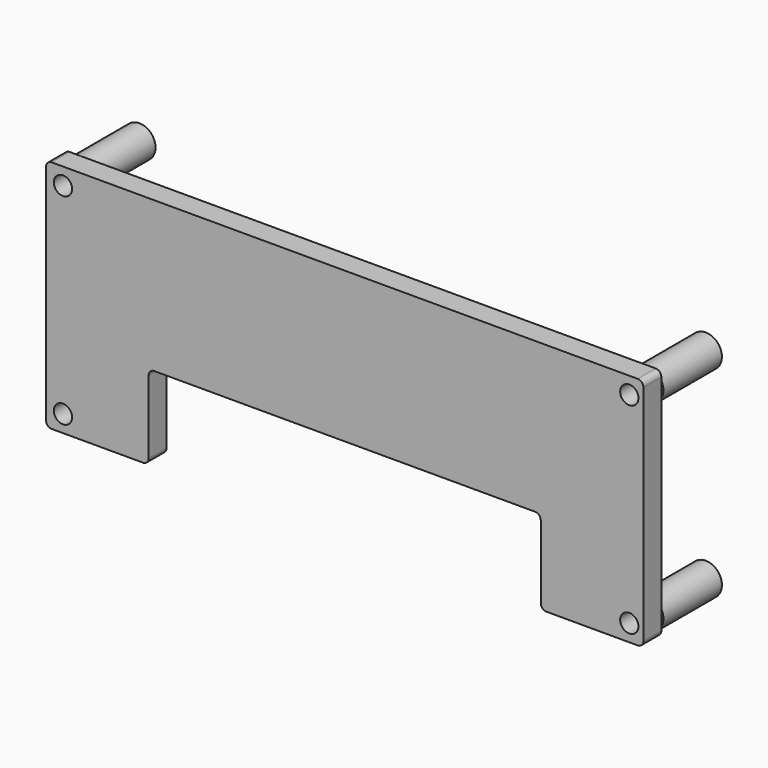
from build123d import *

# Parameters (mm, degrees)
SKETCH051_R                = 2.875
SKETCH051_R_2              = 1.625
EXTRUDE049_DEPTH           = 13
EXTRUDE049_PLACEMENT_ANGLE = 270
SKETCH050_R                = 1.625
EXTRUDE048_DEPTH           = 4
EXTRUDE048_PLACEMENT_ANGLE = 270
FILLET040_R                = 1


with BuildPart() as spacer001:
    # Sketch051 → Extrude049 (new body)
    with BuildSketch(Plane.YZ):
        with Locations((3, 38.75)):
            Circle(SKETCH051_R)
        with Locations((3, 38.75)):
            Circle(SKETCH051_R_2, mode=Mode.SUBTRACT)
        with Locations((3, 3)):
            Circle(SKETCH051_R)
        with Locations((3, 3)):
            Circle(SKETCH051_R_2, mode=Mode.SUBTRACT)
        with Locations((103.75, 3)):
            Circle(SKETCH051_R)
        with Locations((103.75, 3)):
            Circle(SKETCH051_R_2, mode=Mode.SUBTRACT)
        with Locations((103.75, 38.75)):
            Circle(SKETCH051_R)
        with Locations((103.75, 38.75)):
            Circle(SKETCH051_R_2, mode=Mode.SUBTRACT)
    extrude(amount=EXTRUDE049_DEPTH)


with BuildPart() as spacer001_1:
    # Extrude049 placement: moved
    add(spacer001.part.moved(Location((0, -2, 0))).rotate(Axis((0, -2, 0), (0, 0, 1)), EXTRUDE049_PLACEMENT_ANGLE))


with BuildPart() as top_fillet001:
    # Sketch050 → Extrude048 (new body)
    with BuildSketch(Plane.YZ):
        Polygon((106.25, 0), (106.25, 41.75), (0, 41.75), (0, 0), (18.25, 0), (18.25, 15), (88, 15), (88, 0), align=None)
        with Locations((3, 3)):
            Circle(SKETCH050_R, mode=Mode.SUBTRACT)
        with Locations((3, 38.75)):
            Circle(SKETCH050_R, mode=Mode.SUBTRACT)
        with Locations((103.75, 38.75)):
            Circle(SKETCH050_R, mode=Mode.SUBTRACT)
        with Locations((103.75, 3)):
            Circle(SKETCH050_R, mode=Mode.SUBTRACT)
    extrude(amount=EXTRUDE048_DEPTH)


with BuildPart() as top_fillet001_1:
    # Extrude048 placement: moved
    add(top_fillet001.part.moved(Location((0, -15, 0))).rotate(Axis((0, -15, 0), (0, 0, 1)), EXTRUDE048_PLACEMENT_ANGLE))

    # Fusion077: union spacer001
    add(spacer001_1.part)

    # Fillet040
    fillet040_edges = [top_fillet001_1.edges().sort_by_distance(p)[0] for p in [
        (106.25, -17, 0),
        (106.25, -17, 41.75),
        (88, -17, 0),
        (0, -17, 41.75),
        (88, -17, 15),
        (0, -17, 0),
        (18.25, -17, 15),
        (18.25, -17, 0),
    ]]
    fillet(fillet040_edges, radius=FILLET040_R)


solid = top_fillet001_1.part
